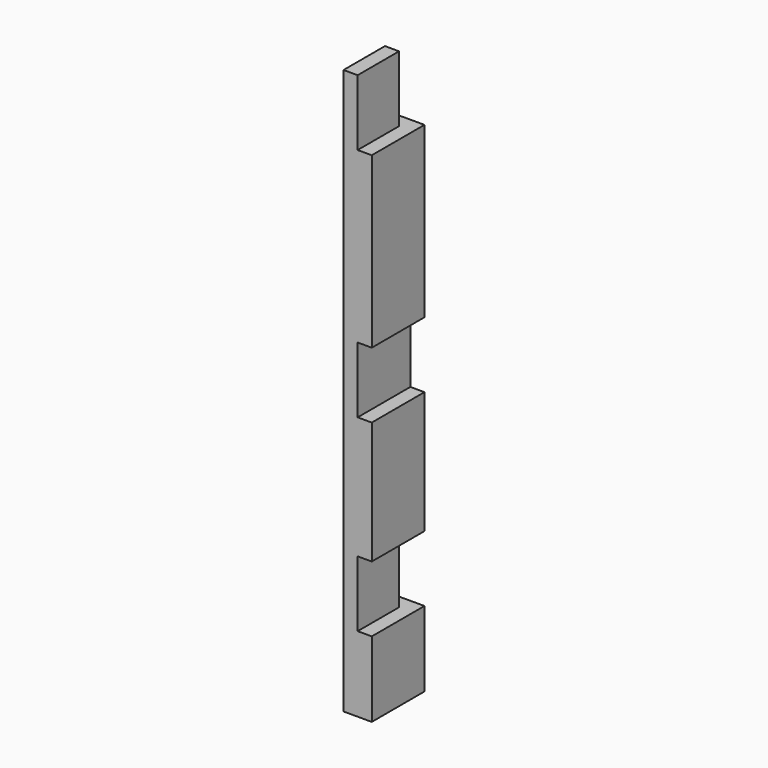
from build123d import *

# Parameters (mm, degrees)
F0_W      = 38.1
F0_H      = 88.9
F1_DEPTH  = 762
F2_W      = 19.05
F2_H      = 88.9
F3_DEPTH  = 88.901
F4_W      = 19.05
F4_H      = 88.9
F5_DEPTH  = 88.901
F6_W      = 19.05
F6_H      = 88.9
F7_DEPTH  = 88.901
F8_W      = 19.05
F8_H      = 88.9
F9_DEPTH  = 19.051
F10_W     = 19.05
F10_H     = 88.9
F11_DEPTH = 19.051


with BuildPart() as f1:
    # F0 (on Top) → F1 (new body)
    with BuildSketch(Plane.XY):
        with Locations((19.05, 44.45)):
            Rectangle(F0_W, F0_H)
    extrude(amount=F1_DEPTH)

    # F2 (on face) → F3 (cut, through all)
    with BuildSketch(Plane.XZ):
        with Locations((28.575, 717.55)):
            Rectangle(F2_W, F2_H)
    extrude(amount=-F3_DEPTH, mode=Mode.SUBTRACT)

    # F4 (on face) → F5 (cut, through all)
    with BuildSketch(Plane.XZ):
        with Locations((28.575, 146.05)):
            Rectangle(F4_W, F4_H)
    extrude(amount=-F5_DEPTH, mode=Mode.SUBTRACT)

    # F6 (on face) → F7 (cut, through all)
    with BuildSketch(Plane.XZ):
        with Locations((28.575, 400.05)):
            Rectangle(F6_W, F6_H)
    extrude(amount=-F7_DEPTH, mode=Mode.SUBTRACT)

    # F8 (on face) → F9 (cut, through all)
    with BuildSketch(Plane.YZ.offset(19.05)):
        with Locations((79.375, 717.55)):
            Rectangle(F8_W, F8_H)
    extrude(amount=-F9_DEPTH, mode=Mode.SUBTRACT)

    # F10 (on face) → F11 (cut, through all)
    with BuildSketch(Plane.YZ.offset(19.05)):
        with Locations((79.375, 146.05)):
            Rectangle(F10_W, F10_H)
    extrude(amount=-F11_DEPTH, mode=Mode.SUBTRACT)


solid = f1.part
